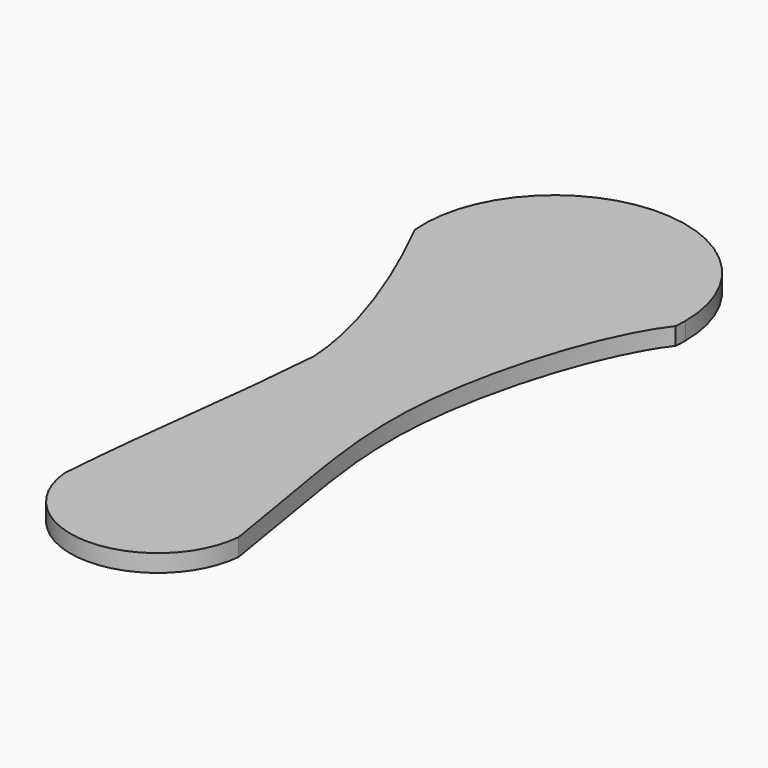
from build123d import *

# Parameters (mm, degrees)
F1_DEPTH = 1
F3_DEPTH = 1.001


with BuildPart() as f1:
    # F0 (on Top) → F1 (new body)
    with BuildSketch(Plane.XY):
        with BuildLine():
            ThreePointArc((7.4708988489, -0.6600533237), (7.4927211801, -0.3303472669), (7.5, 0))
            ThreePointArc((7.5, 0), (-0.3303472669, 7.4927211801), (-7.4708988489, -0.6600533237))
            ThreePointArc((-7.4708988489, -0.6600533237), (0, -7.5), (7.4708988489, -0.6600533237))
        make_face()
        with BuildLine():
            ThreePointArc((7.4708988489, -0.6600533237), (0, -7.5), (-7.4708988489, -0.6600533237))
            Line((-7.4708988489, -0.6600533237), (-4.9805992326, -28.8468313747))
            ThreePointArc((-4.9805992326, -28.8468313747), (-0.2202315113, -23.4116483722), (5, -28.4067958256))
            ThreePointArc((5, -28.4067958256), (4.9951474534, -28.6270273369), (4.9805992326, -28.8468313747))
            Line((4.9805992326, -28.8468313747), (7.4708988489, -0.6600533237))
        make_face()
        with BuildLine():
            ThreePointArc((5, -28.4067958256), (-0.2202315113, -23.4116483722), (-4.9805992326, -28.8468313747))
            ThreePointArc((-4.9805992326, -28.8468313747), (0, -33.4067958256), (4.9805992326, -28.8468313747))
            ThreePointArc((4.9805992326, -28.8468313747), (4.9951474534, -28.6270273369), (5, -28.4067958256))
        make_face()
    extrude(amount=F1_DEPTH)

    # F2 (on face) → F3 (cut, through all)
    with BuildSketch(Plane.XY.offset(1)):
        with BuildLine():
            Line((4.9805992326, -28.8468313747), (7.4708988489, -0.6600533237))
            add(Edge.make_bspline(
                [(7.4708988489, -0.6600533237), (5.498580859, -3.1850634696), (1.8864989838, -14.7813510423), (3.9574673082, -22.1269366386), (4.9805992326, -28.8468313747)],
                knots=[0, 0, 0, 0, 0.4806365809, 1, 1, 1, 1], degree=3))
        make_face()
        with BuildLine():
            add(Edge.make_bspline(
                [(-7.4708988489, -0.6600533237), (-6.1183570617, -3.3043206109), (-3.5667393822, -8.8997869752), (-3.3365392592, -13.0433700979)],
                knots=[0, 0, 0, 0, 13.0552465908, 13.0552465908, 13.0552465908, 13.0552465908], degree=3))
            Line((-7.4708988489, -0.6600533237), (-4.9805992326, -28.8468313747))
            add(Edge.make_bspline(
                [(-3.3365392592, -13.0433700979), (-3.8589811743, -19.7946954944), (-4.4581573175, -22.0955059782), (-4.9805992326, -28.8468313747)],
                knots=[0, 0, 0, 0, 15.888748268, 15.888748268, 15.888748268, 15.888748268], degree=3))
        make_face()
    extrude(amount=-F3_DEPTH, mode=Mode.SUBTRACT)


solid = f1.part
